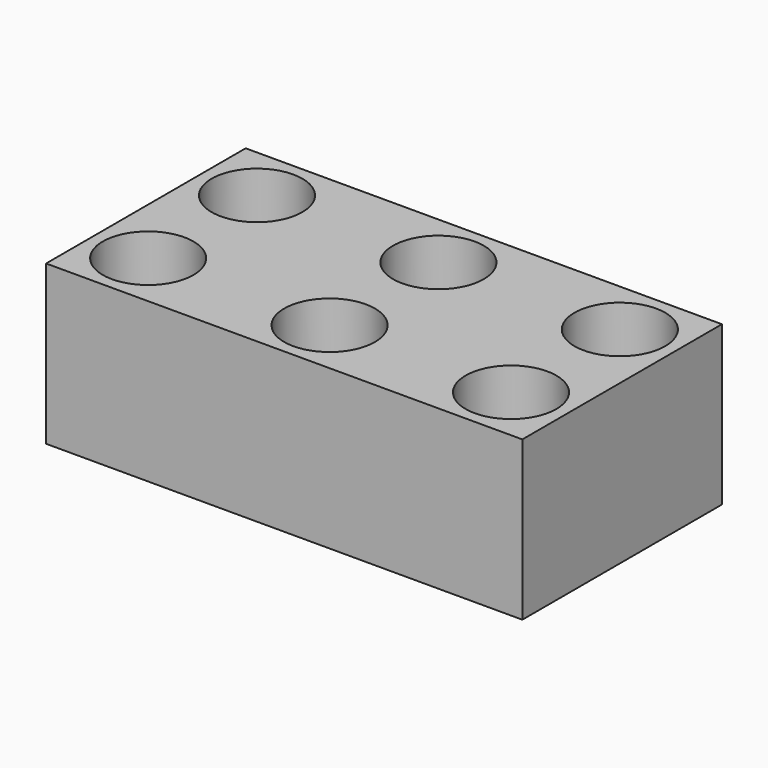
from build123d import *

# Parameters (mm, degrees)
SKETCH089_R      = 1
EXTRUDE006_DEPTH = 4
SKETCH088_R      = 1
EXTRUDE007_DEPTH = 4
SKETCH087_R      = 1
EXTRUDE005_DEPTH = 4
SKETCH086_W      = 10.5
SKETCH086_H      = 5.5
EXTRUDE004_DEPTH = 3.5


with BuildPart() as extrude006:
    # Sketch089 → Extrude006 (new body)
    with BuildSketch(Plane(origin=(8.25, 0.25, 0), x_dir=(1, 0, 0), z_dir=(0, 0, 1))):
        with Locations((1, 1)):
            Circle(SKETCH089_R)
        with Locations((1, 4)):
            Circle(SKETCH089_R)
    extrude(amount=EXTRUDE006_DEPTH)


with BuildPart() as extrude007:
    # Sketch088 → Extrude007 (new body)
    with BuildSketch(Plane(origin=(4.25, 0.25, 0), x_dir=(1, 0, 0), z_dir=(0, 0, 1))):
        with Locations((1, 1)):
            Circle(SKETCH088_R)
        with Locations((1, 4)):
            Circle(SKETCH088_R)
    extrude(amount=EXTRUDE007_DEPTH)


with BuildPart() as fusion007:
    # Sketch087 → Extrude005 (new body)
    with BuildSketch(Plane(origin=(0.25, 0.25, 0), x_dir=(1, 0, 0), z_dir=(0, 0, 1))):
        with Locations((1, 1)):
            Circle(SKETCH087_R)
        with Locations((1, 4)):
            Circle(SKETCH087_R)
    extrude(amount=EXTRUDE005_DEPTH)

    # Fusion007: union Extrude006, Extrude007
    add(extrude006.part)
    add(extrude007.part)


with BuildPart() as cut011:
    # Sketch086 → Extrude004 (new body)
    with BuildSketch(Plane.XY):
        with Locations((5.25, 2.75)):
            Rectangle(SKETCH086_W, SKETCH086_H)
    extrude(amount=EXTRUDE004_DEPTH)

    # Cut011: cut Fusion007
    add(fusion007.part, mode=Mode.SUBTRACT)


solid = cut011.part
